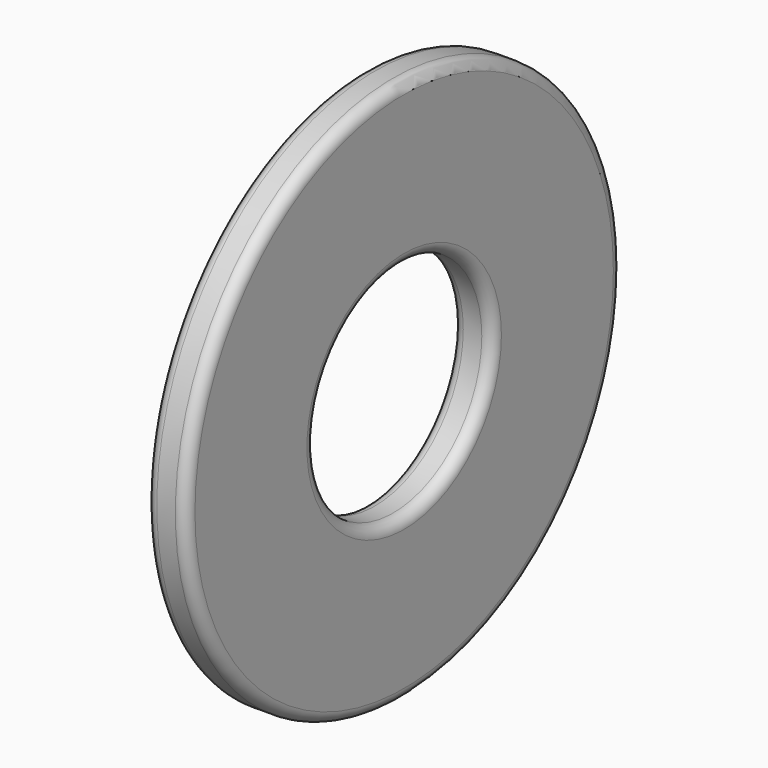
from build123d import *

# Parameters (mm, degrees)
F0_R     = 25.4
F0_R_2   = 10.31875
F1_DEPTH = 3.7592
F2_R     = 1.016


with BuildPart() as f1:
    # F0 (on Right) → F1 (new body)
    with BuildSketch(Plane.YZ):
        Circle(F0_R)
        Circle(F0_R_2, mode=Mode.SUBTRACT)
    extrude(amount=F1_DEPTH)

    # F2
    f2_edges = [f1.edges().sort_by_distance(p)[0] for p in [
        (3.7592, -25.4, 0),
        (0, -25.4, 0),
        (3.7592, -10.31875, 0),
        (0, -10.31875, 0),
    ]]
    fillet(f2_edges, radius=F2_R)


solid = f1.part
